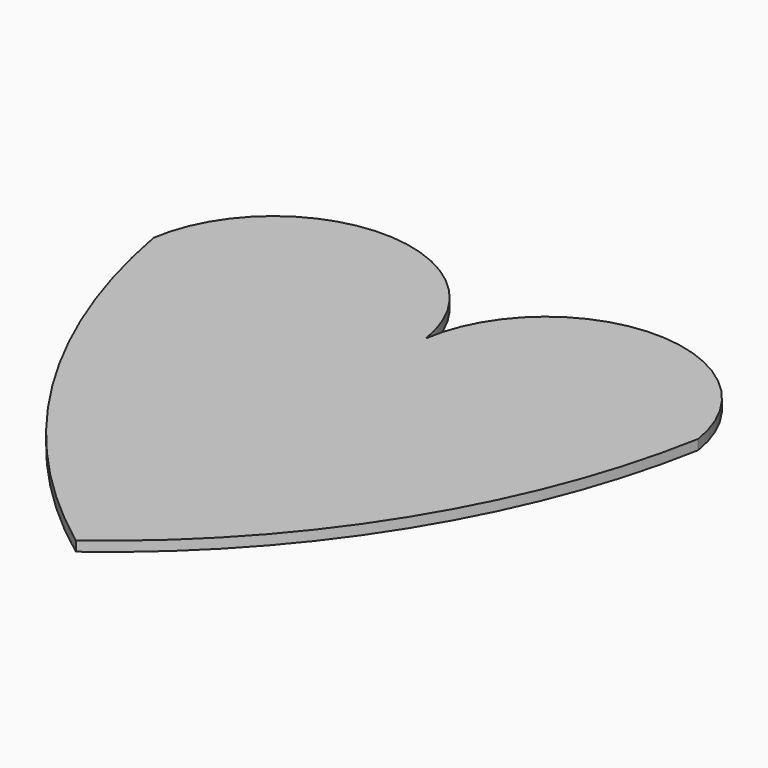
from build123d import *

# Parameters (mm, degrees)
F1_DEPTH = 2


with BuildPart() as f1:
    # F0 (on Top) → F1 (new body)
    with BuildSketch(Plane.XY):
        with BuildLine():
            ThreePointArc((54.6377, 28.594177), (27.31885, 52.146969), (0, 28.594177))
            Line((0, 28.594177), (0, -59.20203))
            ThreePointArc((0, -59.20203), (35.677105, -20.50547), (54.6377, 28.594177))
        make_face()
        with BuildLine():
            Line((0, -59.20203), (0, 28.594177))
            ThreePointArc((0, 28.594177), (-27.31885, 52.146969), (-54.6377, 28.594177))
            ThreePointArc((-54.6377, 28.594177), (-35.677105, -20.50547), (0, -59.20203))
        make_face()
    extrude(amount=F1_DEPTH)


solid = f1.part
